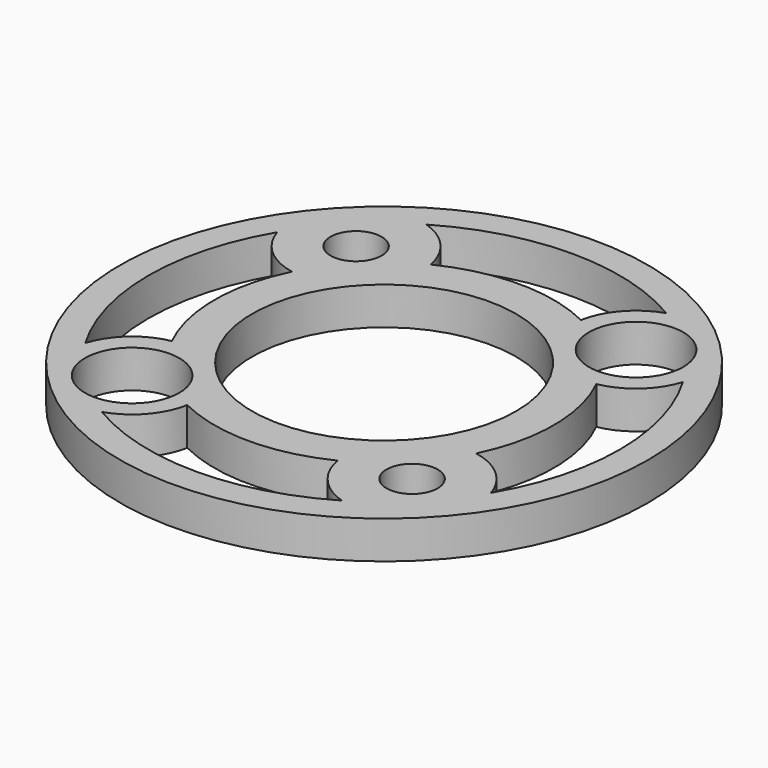
from build123d import *

# Parameters (mm, degrees)
F0_R     = 22.225
F0_R_2   = 3.96875
F0_R_3   = 2.15265
F0_R_4   = 11.1125
F1_DEPTH = 3.175
F3_DEPTH = 3.175


with BuildPart() as f1:
    # F0 (on Top) → F1 (new body)
    with BuildSketch(Plane.XY):
        Circle(F0_R)
        with Locations((-11.786586, -11.786586)):
            Circle(F0_R_2, mode=Mode.SUBTRACT)
        with Locations((11.786586, -11.786586)):
            Circle(F0_R_3, mode=Mode.SUBTRACT)
        with Locations((-11.786586, 11.786586)):
            Circle(F0_R_3, mode=Mode.SUBTRACT)
        Circle(F0_R_4, mode=Mode.SUBTRACT)
        with Locations((11.786586, 11.786586)):
            Circle(F0_R_2, mode=Mode.SUBTRACT)
    extrude(amount=F1_DEPTH)

    # F2 (on face) → F3 (cut, through all)
    with BuildSketch(Plane.XY.offset(3.175)):
        with BuildLine():
            ThreePointArc((-10.100485, 17.080826), (-7.623856, 15.466748), (-6.325575, 12.810924))
            ThreePointArc((-6.325575, 12.810924), (0, 14.2875), (6.325575, 12.810924))
            ThreePointArc((6.325575, 12.810924), (7.623856, 15.466748), (10.100485, 17.080826))
            ThreePointArc((10.100485, 17.080826), (0, 19.84375), (-10.100485, 17.080826))
        make_face()
        with BuildLine():
            ThreePointArc((-12.810924, 6.325575), (-15.466748, 7.623856), (-17.080826, 10.100485))
            ThreePointArc((-17.080826, 10.100485), (-19.84375, 0), (-17.080826, -10.100485))
            ThreePointArc((-17.080826, -10.100485), (-15.466748, -7.623856), (-12.810924, -6.325575))
            ThreePointArc((-12.810924, -6.325575), (-14.2875, 0), (-12.810924, 6.325575))
        make_face()
        with BuildLine():
            ThreePointArc((17.080826, 10.100485), (15.466748, 7.623856), (12.810924, 6.325575))
            ThreePointArc((12.810924, 6.325575), (14.2875, 0), (12.810924, -6.325575))
            ThreePointArc((12.810924, -6.325575), (15.466748, -7.623856), (17.080826, -10.100485))
            ThreePointArc((17.080826, -10.100485), (19.84375, 0), (17.080826, 10.100485))
        make_face()
        with BuildLine():
            ThreePointArc((-6.325575, -12.810924), (-7.623856, -15.466748), (-10.100485, -17.080826))
            ThreePointArc((-10.100485, -17.080826), (0, -19.84375), (10.100485, -17.080826))
            ThreePointArc((10.100485, -17.080826), (7.623856, -15.466748), (6.325575, -12.810924))
            ThreePointArc((6.325575, -12.810924), (0, -14.2875), (-6.325575, -12.810924))
        make_face()
    extrude(amount=-F3_DEPTH, mode=Mode.SUBTRACT)


solid = f1.part
